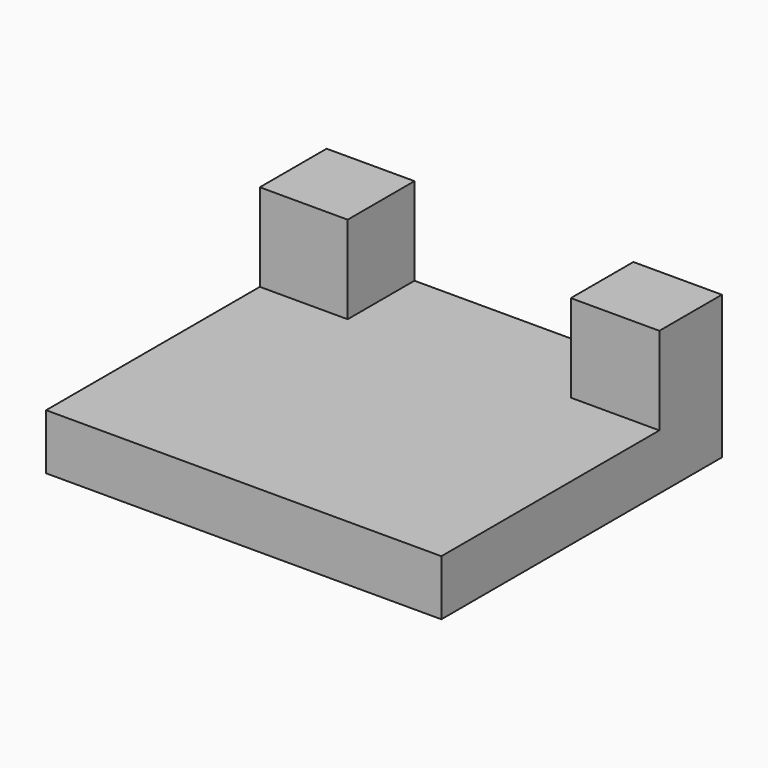
from build123d import *

# Parameters (mm, degrees)
F0_W     = 114.5210824907
F0_H     = 16.0948559642
F1_DEPTH = 101.6
F2_W     = 25.6531313062
F2_H     = 22.6550512016
F3_DEPTH = 25.4
F4_W     = 25.4432931542
F4_H     = 15.3012713417
F5_DEPTH = 25.4
F6_DEPTH = 8.89


with BuildPart() as f1:
    # F0 (on Front) → F1 (new body)
    with BuildSketch(Plane.XZ):
        with Locations((0.928549096, -39.4633449614)):
            Rectangle(F0_W, F0_H)
    extrude(amount=F1_DEPTH)

    # F2 (on face) → F3 (join)
    with BuildSketch(Plane.XY.offset(-31.4159169793)):
        with Locations((45.3625246882, -11.3275256008)):
            Rectangle(F2_W, F2_H)
    extrude(amount=F3_DEPTH)

    # F4 (on face) → F5 (join)
    with BuildSketch(Plane.XY.offset(-31.4159169793)):
        with Locations((-43.6103455722, -7.6506356709)):
            Rectangle(F4_W, F4_H)
    extrude(amount=F5_DEPTH)

    # F6 (add): a face of the model
    f6_faces = [f1.faces().sort_by_distance(p)[0] for p in [
        (-43.6103455722, -15.3012713417, -18.7159169793),
    ]]
    extrude(f6_faces, amount=F6_DEPTH)


solid = f1.part
